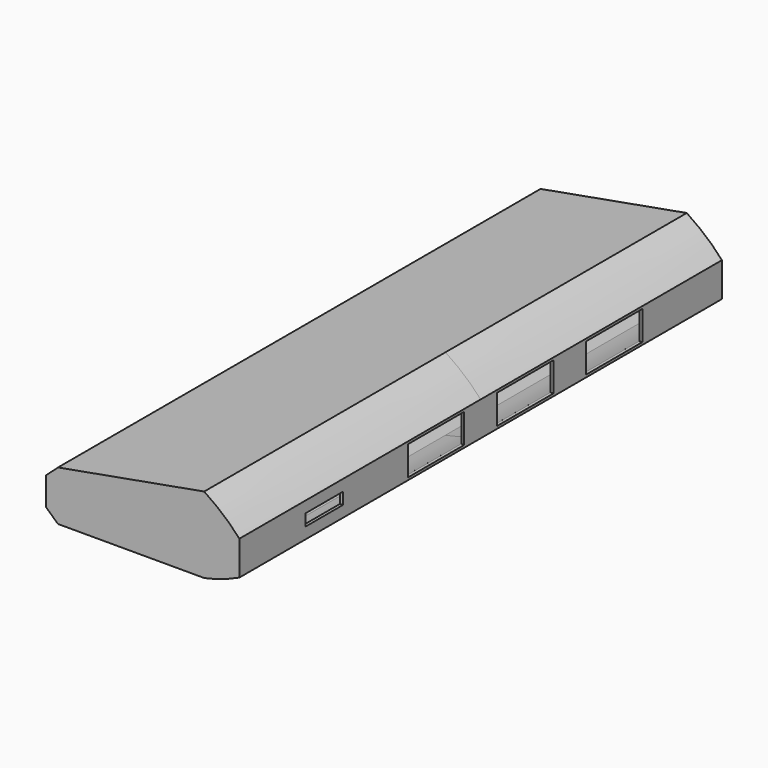
from build123d import *

# Parameters (mm, degrees)
PAD_DEPTH     = 51.5
THICKNESS_T   = -0.5
SKETCH002_W   = 5
SKETCH002_H   = 12
SKETCH002_W_2 = 2
SKETCH002_H_2 = 8
POCKET_DEPTH  = 5


with BuildPart() as part:
    # Sketch → Pad (new body, symmetric)
    with BuildSketch(Plane.XZ):
        with BuildLine():
            Line((16.5, -4.48614), (16.5, 1.35978))
            add(Edge.make_bspline(
                [(10.5, 6.5), (14.0348, 4.18709), (16.5, 1.35978)],
                knots=[0, 0, 0, 1, 1, 1], degree=2))
            Line((10.5, 6.5), (-14.47, 2))
            Line((-14.47, 2), (-16.5, 0.15))
            Line((-16.5, 0.15), (-16.5, -4.65))
            Line((-16.5, -4.65), (-14.466996, -6.5))
            Line((-14.466996, -6.5), (10.5, -6.5))
            add(Edge.make_bspline(
                [(16.5, -4.48614), (13.35, -5.95741), (10.5, -6.5)],
                knots=[0, 0, 0, 1, 1, 1], degree=2))
        make_face()
    extrude(amount=PAD_DEPTH, both=True)

    # Thickness
    thickness_openings = [part.faces().sort_by_distance(p)[0] for p in [
        (0.779746, 51.5, -1.023703),
    ]]
    offset(amount=THICKNESS_T, openings=thickness_openings, kind=Kind.INTERSECTION)

    # Sketch002 (on Face1 of Pad) → Pocket (cut)
    with BuildSketch(Plane(origin=(16.5, 0, 0), x_dir=(0, 0, 1), z_dir=(1, 0, 0))):
        with Locations((-1.56114, 9.5)):
            Rectangle(SKETCH002_W, SKETCH002_H)
        with Locations((-1.56114, -28.5)):
            Rectangle(SKETCH002_W, SKETCH002_H)
        with Locations((-1.56114, -9.5)):
            Rectangle(SKETCH002_W, SKETCH002_H)
        with Locations((-1.56022, 33.370129)):
            Rectangle(SKETCH002_W_2, SKETCH002_H_2)
    extrude(amount=-POCKET_DEPTH, mode=Mode.SUBTRACT)


solid = part.part
